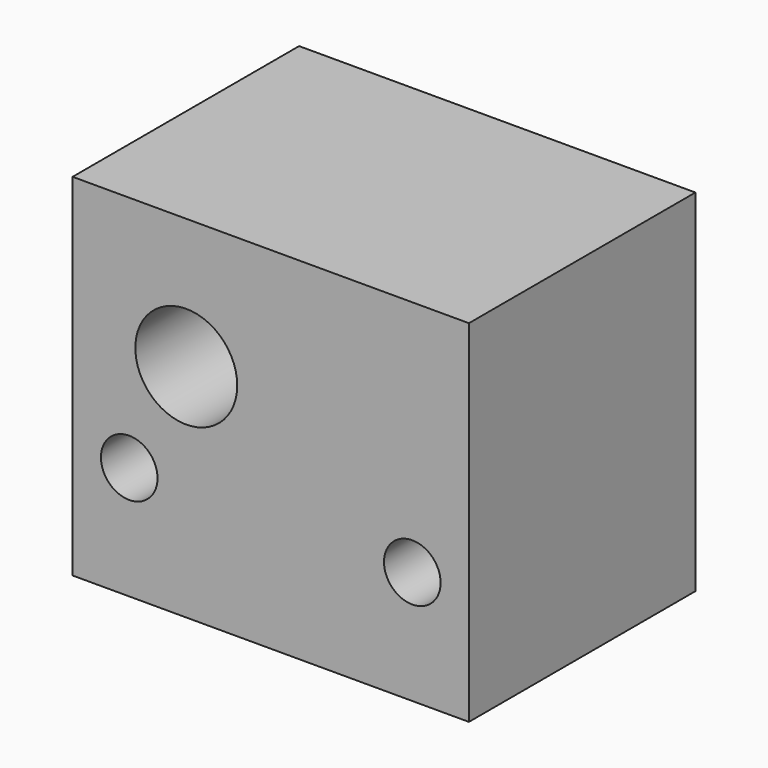
from build123d import *

# Parameters (mm, degrees)
F0_W     = 88.9
F0_H     = 78.74
F0_R     = 6.35
F0_R_2   = 11.43
F1_DEPTH = 31.75


with BuildPart() as f1:
    # F0 (on Front) → F1 (new body, symmetric)
    with BuildSketch(Plane.XZ):
        with Locations((-4.195822, 5.659558)):
            Rectangle(F0_W, F0_H)
        with Locations((-35.945822, -8.310442)):
            Circle(F0_R, mode=Mode.SUBTRACT)
        with Locations((27.554178, -8.310442)):
            Circle(F0_R, mode=Mode.SUBTRACT)
        with Locations((-23.149367, 15.819558)):
            Circle(F0_R_2, mode=Mode.SUBTRACT)
    extrude(amount=F1_DEPTH, both=True)


solid = f1.part
